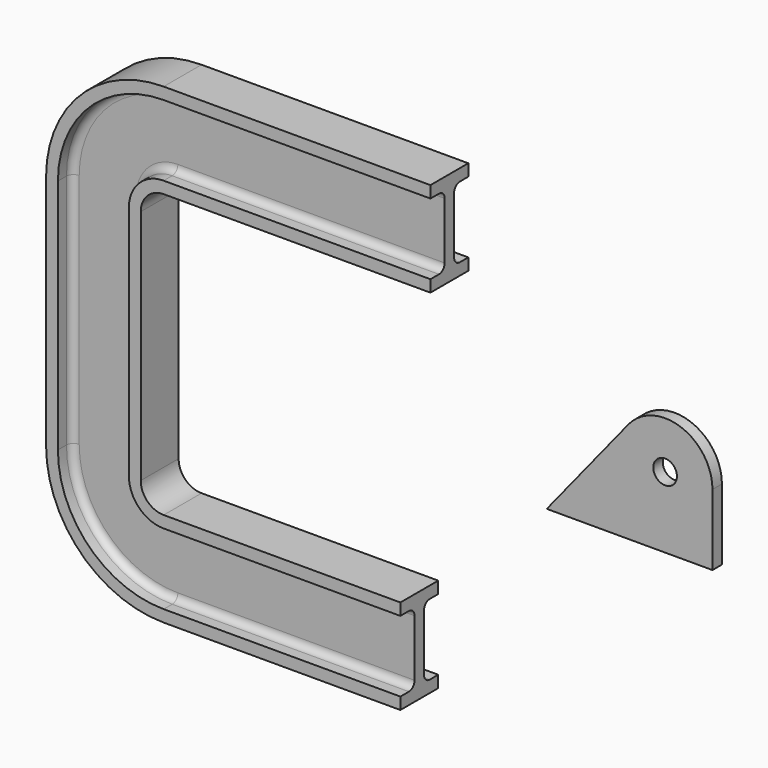
from build123d import *

# Parameters (mm, degrees)
F2_DEPTH = 12.7
F4_R     = 5
F5_DEPTH = 2.5


with BuildPart() as f2:
    # F0 (on Right) → F2 (new body, symmetric)
    with BuildSketch(Plane.YZ):
        with BuildLine():
            Line((-10, 69.4266632199), (0, 69.4266632199))
            Line((0, 69.4266632199), (10, 69.4266632199))
            Line((10, 69.4266632199), (10, 74.4266632199))
            Line((10, 74.4266632199), (5.5, 74.4266632199))
            ThreePointArc((5.5, 74.4266632199), (3.3786796564, 75.3053428764), (2.5, 77.4266632199))
            Line((2.5, 77.4266632199), (2.5, 101.4266632199))
            ThreePointArc((2.5, 101.4266632199), (3.3786796564, 103.5479835635), (5.5, 104.4266632199))
            Line((5.5, 104.4266632199), (10, 104.4266632199))
            Line((10, 104.4266632199), (10, 109.4266632199))
            Line((10, 109.4266632199), (0, 109.4266632199))
            Line((0, 109.4266632199), (-10, 109.4266632199))
            Line((-10, 109.4266632199), (-10, 104.4266632199))
            Line((-10, 104.4266632199), (-5.5, 104.4266632199))
            ThreePointArc((-5.5, 104.4266632199), (-3.3786796564, 103.5479835635), (-2.5, 101.4266632199))
            Line((-2.5, 101.4266632199), (-2.5, 77.4266632199))
            ThreePointArc((-2.5, 77.4266632199), (-3.3786796564, 75.3053428764), (-5.5, 74.4266632199))
            Line((-5.5, 74.4266632199), (-10, 74.4266632199))
            Line((-10, 74.4266632199), (-10, 69.4266632199))
        make_face()
    extrude(amount=F2_DEPTH, both=True)

    # F3: sweep along a path in F1
    with BuildLine(Plane.XZ) as f3_path:
        Line((0, 69.7536692023), (-100, 69.7536692023))
        ThreePointArc((-100, 69.7536692023), (-107.0710678119, 66.8247370142), (-110, 59.7536692023))
        Line((-110, 59.7536692023), (-110, -40.2463307977))
        ThreePointArc((-110, -40.2463307977), (-107.0710678119, -47.3173986095), (-100, -50.2463307977))
        Line((-100, -50.2463307977), (0, -50.2463307977))
    # F0 (on Right) → F3 (sweep)
    with BuildSketch(Plane.YZ):
        with BuildLine():
            Line((-10, 69.4266632199), (0, 69.4266632199))
            Line((0, 69.4266632199), (10, 69.4266632199))
            Line((10, 69.4266632199), (10, 74.4266632199))
            Line((10, 74.4266632199), (5.5, 74.4266632199))
            ThreePointArc((5.5, 74.4266632199), (3.3786796564, 75.3053428764), (2.5, 77.4266632199))
            Line((2.5, 77.4266632199), (2.5, 101.4266632199))
            ThreePointArc((2.5, 101.4266632199), (3.3786796564, 103.5479835635), (5.5, 104.4266632199))
            Line((5.5, 104.4266632199), (10, 104.4266632199))
            Line((10, 104.4266632199), (10, 109.4266632199))
            Line((10, 109.4266632199), (0, 109.4266632199))
            Line((0, 109.4266632199), (-10, 109.4266632199))
            Line((-10, 109.4266632199), (-10, 104.4266632199))
            Line((-10, 104.4266632199), (-5.5, 104.4266632199))
            ThreePointArc((-5.5, 104.4266632199), (-3.3786796564, 103.5479835635), (-2.5, 101.4266632199))
            Line((-2.5, 101.4266632199), (-2.5, 77.4266632199))
            ThreePointArc((-2.5, 77.4266632199), (-3.3786796564, 75.3053428764), (-5.5, 74.4266632199))
            Line((-5.5, 74.4266632199), (-10, 74.4266632199))
            Line((-10, 74.4266632199), (-10, 69.4266632199))
        make_face()
    sweep(path=f3_path.line)


with BuildPart() as f5:
    # F4 (on Front) → F5 (new body, symmetric)
    with BuildSketch(Plane.XZ):
        with BuildLine():
            Line((90.2913753359, 42.5800752207), (55.8394204684, 0))
            Line((55.8394204684, 0), (125.8394204684, 0))
            Line((125.8394204684, 0), (125.8394204684, 30))
            ThreePointArc((125.8394204684, 30), (112.5117175747, 48.8541892248), (90.2913753359, 42.5800752207))
        make_face()
        with Locations((105.8394204684, 30)):
            Circle(F4_R, mode=Mode.SUBTRACT)
    extrude(amount=F5_DEPTH, both=True)


solid = Compound([f2.part, f5.part])
